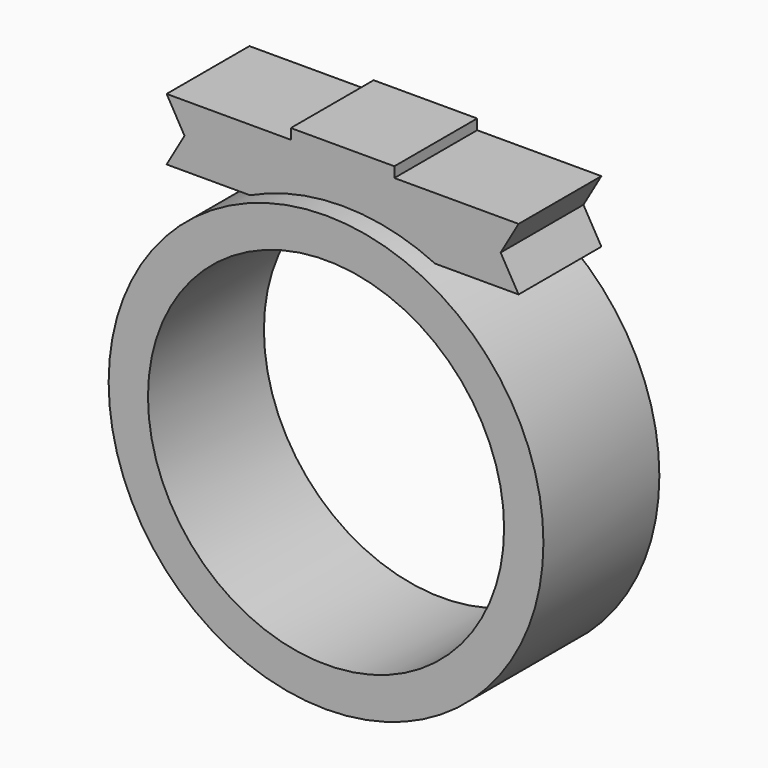
from build123d import *

# Parameters (mm, degrees)
F0_R     = 10.5
F0_R_2   = 8.6
F1_DEPTH = 7
F3_W     = 5
F3_H     = 5
F4_DEPTH = 4
F5_W     = 5
F5_H     = 3
F6_DEPTH = 6
F8_DEPTH = 25


with BuildPart() as f1:
    # F0 (on Front) → F1 (new body)
    with BuildSketch(Plane.XZ):
        Circle(F0_R)
        Circle(F0_R_2, mode=Mode.SUBTRACT)
    extrude(amount=F1_DEPTH)

    # F3 (on offset) → F4 (join)
    with BuildSketch(Plane.XY.offset(9)):
        with Locations((0, -3.5)):
            Rectangle(F3_W, F3_H)
    extrude(amount=F4_DEPTH)

    # F5 (on face) → F6 (join)
    with BuildSketch(Plane.YZ.offset(2.5)):
        with Locations((-3.5, 11)):
            Rectangle(F5_W, F5_H)
    extrude(amount=F6_DEPTH)

    # F7 (on face) → F8 (cut)
    with BuildSketch(Plane.XZ.offset(6)):
        Polygon((8.5, 9.5), (8.5, 12.5), (7.633975, 11), align=None)
    extrude(amount=-F8_DEPTH, mode=Mode.SUBTRACT)

    # F9: F1 across plane


with BuildPart() as f1_1:
    add(f1.part)
    add(f1.part.mirror(Plane.YZ))


solid = f1_1.part
